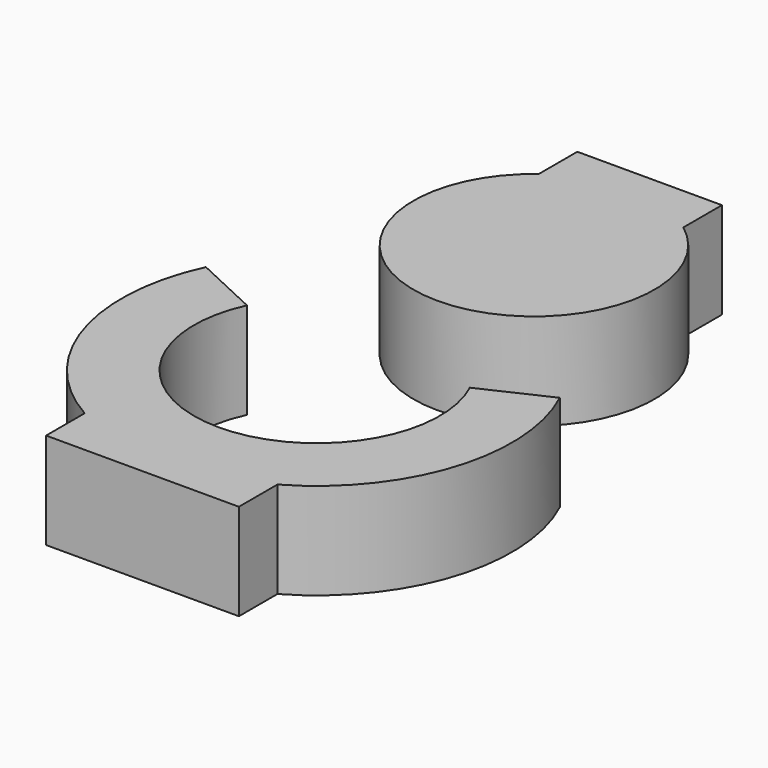
from build123d import *

# Parameters (mm, degrees)
F2_DEPTH = 5.08


with BuildPart() as f2:
    # F1 (on Top) → F2 (new body)
    with BuildSketch(Plane.XY):
        with BuildLine():
            Line((-5.8701555366, 2.7372984813), (-9.3231882052, 4.3474740585))
            ThreePointArc((-9.3231882052, 4.3474740585), (-9.7998223442, -3.1282344897), (-5.08, -8.9451645597))
            Line((-5.08, -8.9451645597), (-5.08, -11.4851645597))
            Line((-5.08, -11.4851645597), (5.08, -11.4851645597))
            Line((5.08, -11.4851645597), (5.08, -8.9451645597))
            ThreePointArc((5.08, -8.9451645597), (9.7998223442, -3.1282344897), (9.3231882052, 4.3474740585))
            Line((9.3231882052, 4.3474740585), (5.8701555366, 2.7372984813))
            ThreePointArc((5.8701555366, 2.7372984813), (5.4626463945, -3.4800895633), (0, -6.477))
            ThreePointArc((0, -6.477), (-5.4626463945, -3.4800895633), (-5.8701555366, 2.7372984813))
        make_face()
    extrude(amount=F2_DEPTH)


with BuildPart() as f2b:
    # F0 (on Top) → F2, piece 2 (new body)
    with BuildSketch(Plane.XY):
        with BuildLine():
            Line((0, 7.62), (-3.81, 7.62))
            Line((-3.81, 7.62), (-3.81, 5.08))
            ThreePointArc((-3.81, 5.08), (0, -6.35), (3.81, 5.08))
            Line((3.81, 5.08), (3.81, 7.62))
            Line((3.81, 7.62), (0, 7.62))
        make_face()
    extrude(amount=F2_DEPTH)


with BuildPart() as f2_1:
    # F3: moved
    add(f2.part.moved(Location((0, -14.3002, 0))))


solid = Compound([f2b.part, f2_1.part])
